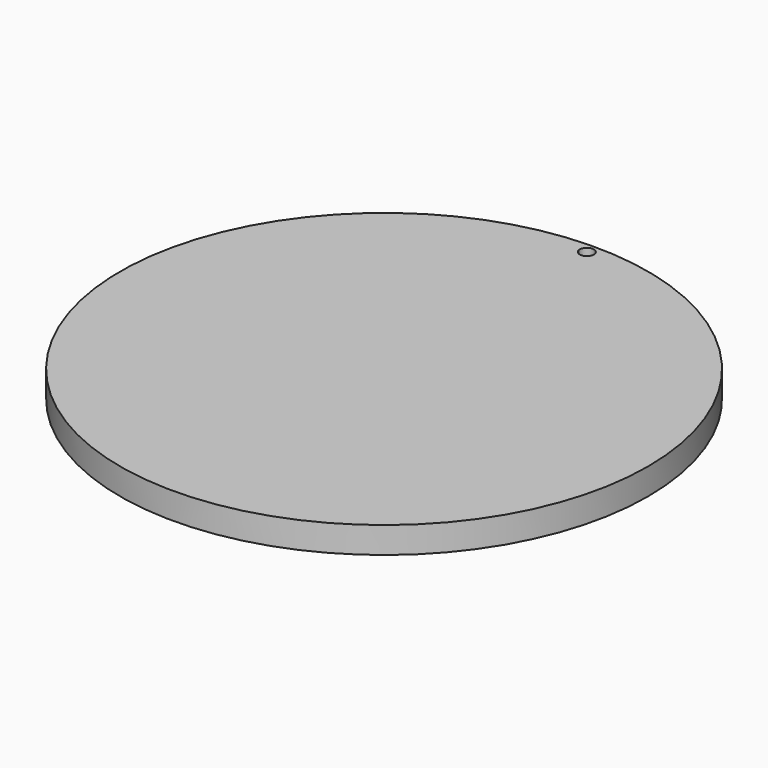
from build123d import *

# Parameters (mm, degrees)
F0_R     = 127
F1_DEPTH = 12.7
F3_DEPTH = 12.701


with BuildPart() as f1:
    # F0 (on Top) → F1 (new body)
    with BuildSketch(Plane.XY):
        Circle(F0_R)
    extrude(amount=F1_DEPTH)

    # F2 (on face) → F3 (cut, through all)
    with BuildSketch(Plane.XY.offset(12.7)):
        with BuildLine():
            ThreePointArc((-3.377876, 121.873198), (0, 118.5418), (3.377876, 121.873198))
            ThreePointArc((3.377876, 121.873198), (0, 121.92), (-3.377876, 121.873198))
        make_face()
        with BuildLine():
            ThreePointArc((-3.377876, 121.873198), (0, 121.92), (3.377876, 121.873198))
            ThreePointArc((3.377876, 121.873198), (3.378119, 121.896598), (3.3782, 121.92))
            ThreePointArc((3.3782, 121.92), (-0.023402, 125.298119), (-3.377876, 121.873198))
        make_face()
    extrude(amount=-F3_DEPTH, mode=Mode.SUBTRACT)


solid = f1.part
